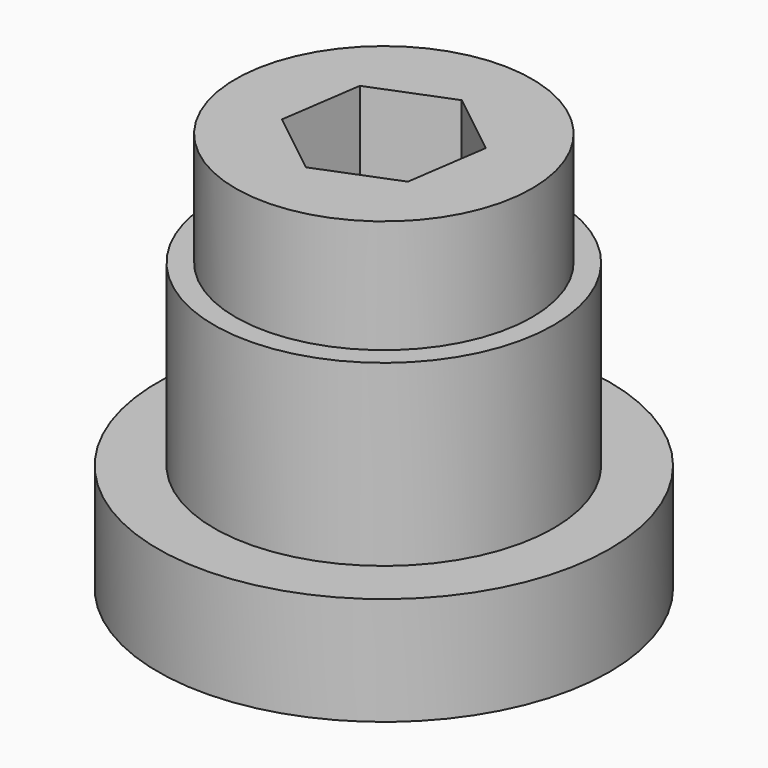
from build123d import *

# Parameters (mm, degrees)
SKETCH_R      = 25.898575
PAD_DEPTH     = 12.4
SKETCH001_R   = 19.464616
SKETCH001_R_2 = 10
PAD001_DEPTH  = 20.5
SKETCH002_R   = 17
PAD002_DEPTH  = 13


with BuildPart() as part:
    # Sketch → Pad (new body)
    with BuildSketch(Plane.XY):
        Circle(SKETCH_R)
        Polygon((8.12282, 14.039523), (-8.097173, 14.05433), (-16.219993, 0.014807), (-8.12282, -14.039523), (8.097173, -14.05433), (16.219993, -0.014807), align=None, mode=Mode.SUBTRACT)
    extrude(amount=PAD_DEPTH)

    # Sketch001 (on Face9 of Pad) → Pad001 (join)
    with BuildSketch(Plane.XY.offset(12.4)):
        Circle(SKETCH001_R)
        Circle(SKETCH001_R_2, mode=Mode.SUBTRACT)
    extrude(amount=PAD001_DEPTH)

    # Sketch002 (on Face12 of Pad001) → Pad002 (join)
    with BuildSketch(Plane.XY.offset(32.9)):
        Circle(SKETCH002_R)
        Polygon((-7.484853, 5.915115), (-8.865066, -3.524515), (-1.380213, -9.43963), (7.484853, -5.915115), (8.865066, 3.524515), (1.380213, 9.43963), align=None, mode=Mode.SUBTRACT)
    extrude(amount=PAD002_DEPTH)


solid = part.part
